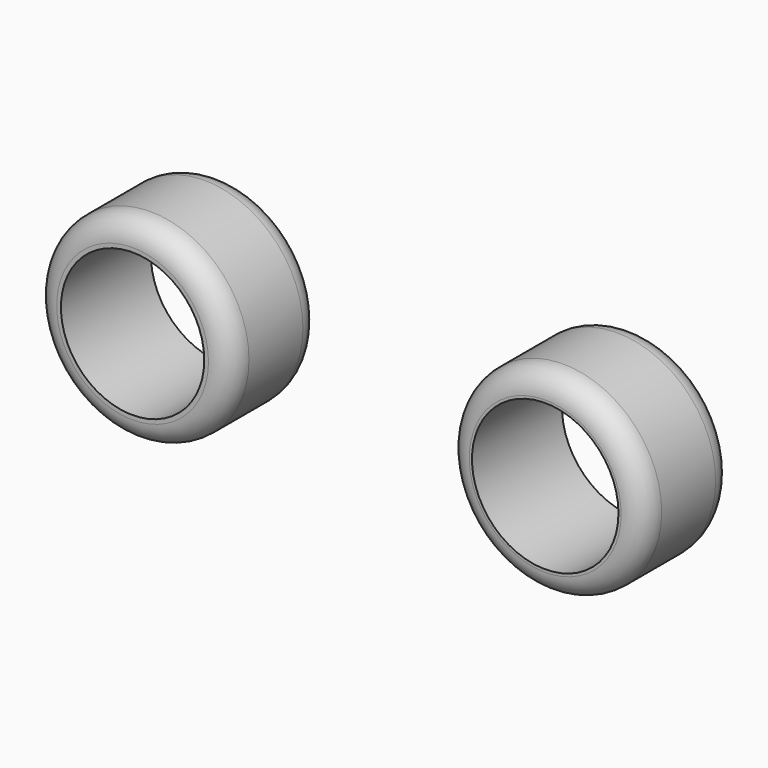
from build123d import *

# Parameters (mm, degrees)
F0_R     = 22.221119
F0_R_2   = 16.181298
F0_R_3   = 22.226887
F0_R_4   = 16.539835
F1_DEPTH = 25.4
F2_R     = 5.08


with BuildPart() as f1:
    # F0 (on Front) → F1 (new body)
    with BuildSketch(Plane.XZ):
        with Locations((-73.553495, 0)):
            Circle(F0_R)
        with Locations((-73.553495, 0)):
            Circle(F0_R_2, mode=Mode.SUBTRACT)
        with Locations((19.622706, 0)):
            Circle(F0_R_3)
        with Locations((19.622706, 0)):
            Circle(F0_R_4, mode=Mode.SUBTRACT)
    extrude(amount=F1_DEPTH)

    # F2
    f2_edges = [f1.edges().sort_by_distance(p)[0] for p in [
        (-95.774614, -25.4, 0),
        (-95.774614, 0, 0),
        (-2.604181, 0, 0),
        (-2.604181, -25.4, 0),
    ]]
    fillet(f2_edges, radius=F2_R)


solid = f1.part
